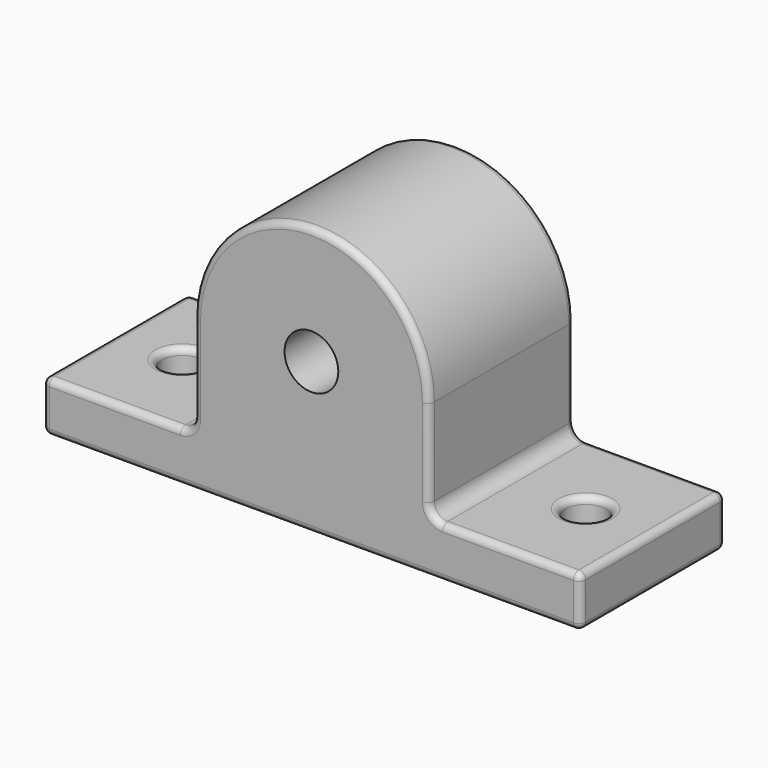
from build123d import *

# Parameters (mm, degrees)
F0_W     = 80
F0_H     = 27
F0_R     = 3
F1_DEPTH = 7.5
F2_R     = 4
F3_DEPTH = 13.5
F4_R     = 2
F5_R     = 1
F6_R     = 1


with BuildPart() as f1:
    # F0 (on Top) → F1 (new body)
    with BuildSketch(Plane.XY):
        Rectangle(F0_W, F0_H)
        with Locations((-30, 0)):
            Circle(F0_R, mode=Mode.SUBTRACT)
        with Locations((30, 0)):
            Circle(F0_R, mode=Mode.SUBTRACT)
    extrude(amount=F1_DEPTH)

    # F2 (on Front) → F3 (join, symmetric)
    with BuildSketch(Plane.XZ):
        with BuildLine():
            Line((17.5, 2.5), (17.5, 22.5))
            ThreePointArc((17.5, 22.5), (0, 40), (-17.5, 22.5))
            Line((-17.5, 22.5), (-17.5, 2.5))
            Line((-17.5, 2.5), (17.5, 2.5))
        make_face()
        with Locations((0, 22.5)):
            Circle(F2_R, mode=Mode.SUBTRACT)
    extrude(amount=F3_DEPTH, both=True)

    # F4
    f4_edges = [f1.edges().sort_by_distance(p)[0] for p in [
        (17.5, 0, 7.5),
        (-17.5, 0, 7.5),
    ]]
    fillet(f4_edges, radius=F4_R)

    # F5
    f5_edges = [f1.edges().sort_by_distance(p)[0] for p in [
        (-40, -13.5, 3.75),
        (-40, 13.5, 3.75),
        (40, -13.5, 3.75),
        (40, 13.5, 3.75),
    ]]
    fillet(f5_edges, radius=F5_R)

    # F6
    f6_edges = [f1.edges().sort_by_distance(p)[0] for p in [
        (-29.25, -13.5, 7.5),
        (-39.707107, -13.207107, 7.5),
        (-19.5, 0, 7.5),
        (-40, 0, 7.5),
        (-29.25, 13.5, 7.5),
        (-39.707107, 13.207107, 7.5),
        (-33, 0, 7.5),
        (-18.085786, 13.5, 8.085786),
        (-17.5, 0, 9.5),
        (-18.085786, -13.5, 8.085786),
        (-17.5, -13.5, 16),
        (-17.5, 0, 22.5),
        (-17.5, 13.5, 16),
        (0, 13.5, 40),
        (0, -13.5, 40),
        (17.5, 0, 22.5),
        (17.5, -13.5, 16),
        (17.5, 0, 9.5),
        (17.5, 13.5, 16),
        (29.25, 13.5, 7.5),
        (39, 13.5, 3.75),
        (18.085786, 13.5, 8.085786),
        (0, 13.5, 0),
        (-39, 13.5, 3.75),
        (-4, 13.5, 22.5),
        (18.085786, -13.5, 8.085786),
        (19.5, 0, 7.5),
        (29.25, -13.5, 7.5),
        (39.707107, -13.207107, 7.5),
        (40, 0, 7.5),
        (39.707107, 13.207107, 7.5),
        (27, 0, 7.5),
    ]]
    fillet(f6_edges, radius=F6_R)


solid = f1.part
